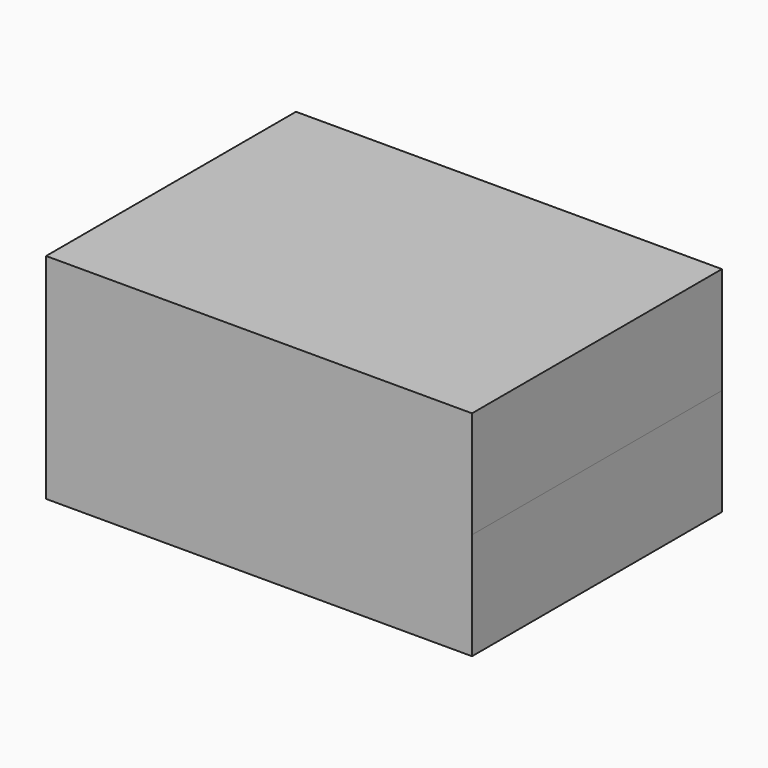
from build123d import *

# Parameters (mm, degrees)
F0_W      = 101.175439
F0_H      = 74.195322
F1_DEPTH  = 25.4
F1_FACE_W = 101.175438
F1_FACE_H = 74.195322
F2_R      = 19.170113
F3_DEPTH  = 25.4


with BuildPart() as f1:
    # F0 (on Top) → F1 (new body)
    with BuildSketch(Plane.XY):
        with Locations((12.094537, -20.002501)):
            Rectangle(F0_W, F0_H)
    extrude(amount=F1_DEPTH)

    # F1_face (on face) + F2 (on Top) → F3 (join)
    with BuildSketch(Plane(origin=(12.094537, -20.002501, 25.4), x_dir=(1, 0, 0), z_dir=(0, 0, 1))):
        Rectangle(F1_FACE_W, F1_FACE_H)
        Rectangle(F1_FACE_W, F1_FACE_H)
    with BuildSketch(Plane.XY):
        with Locations((0, -17.327746)):
            Circle(F2_R)
    extrude(amount=F3_DEPTH)


solid = f1.part
